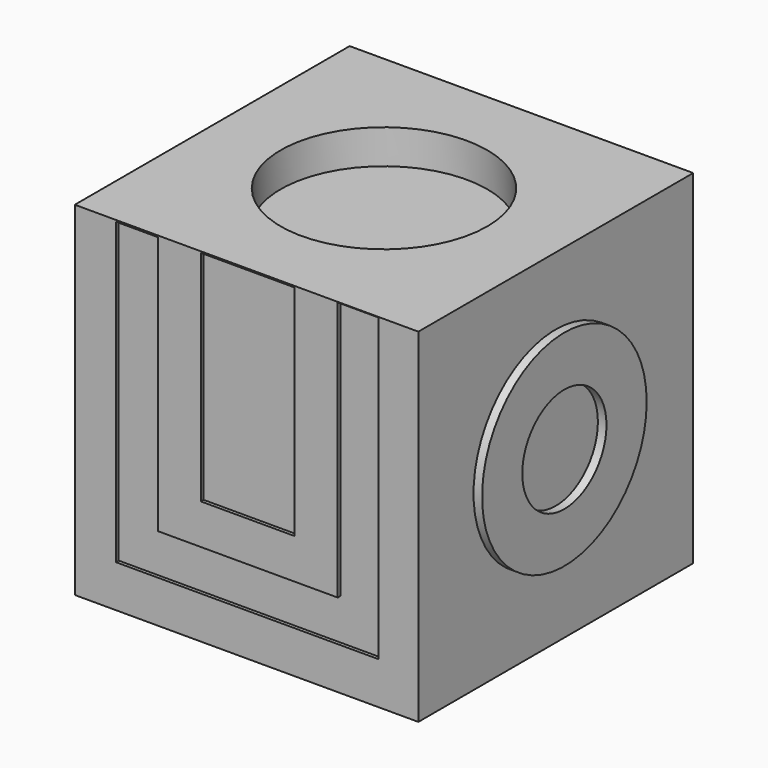
from build123d import *

# Parameters (mm, degrees)
BOX_W           = 10
BOX_H           = 10
BOX_DEPTH       = 10
SKETCH_R        = 3.031933
SKETCH_R_2      = 1.466661
PAD_DEPTH       = 0.25
SKETCH001_R     = 2.993457
SKETCH001_R_2   = 1.531672
PAD001_DEPTH    = 0.25
SKETCH002_W     = 2.724157
SKETCH002_H     = 6.368804
POCKET_DEPTH    = 0.1
POCKET001_DEPTH = 0.1
SKETCH004_R     = 3.031957
PAD002_DEPTH    = 1.2
CHAMFER_SIZE    = 0.5
SKETCH005_R     = 3.00622
POCKET002_DEPTH = 1


with BuildPart() as part:
    # Box → Box (new body)
    with BuildSketch(Plane.XY):
        with Locations((5, 5)):
            Rectangle(BOX_W, BOX_H)
    extrude(amount=BOX_DEPTH)

    # Sketch → Pad (new body)
    with BuildSketch(Plane(origin=(0, 0, 0), x_dir=(0, -1, 0), z_dir=(-1, 0, 0))):
        with Locations((-4.966039, 4.966038)):
            Circle(SKETCH_R)
        with Locations((-4.966039, 4.966038)):
            Circle(SKETCH_R_2, mode=Mode.SUBTRACT)
    extrude(amount=PAD_DEPTH)

    # Sketch001 → Pad001 (new body)
    with BuildSketch(Plane.YZ.offset(10)):
        with Locations((5, 5.033968)):
            Circle(SKETCH001_R)
        with Locations((5, 5.033968)):
            Circle(SKETCH001_R_2, mode=Mode.SUBTRACT)
    extrude(amount=PAD001_DEPTH)

    # Sketch002 → Pocket (cut)
    with BuildSketch(Plane.XZ):
        Polygon((1.199389, 9.955067), (1.199389, 1.230168), (8.845252, 1.230168), (8.845252, 9.984818), (7.653271, 9.984818), (7.653271, 2.423196), (2.426231, 2.423196), (2.426231, 9.955067), align=None)
        with Locations((5.033784, 6.775435)):
            Rectangle(SKETCH002_W, SKETCH002_H)
    extrude(amount=-POCKET_DEPTH, mode=Mode.SUBTRACT)

    # Sketch003 → Pocket001 (cut)
    with BuildSketch(Plane(origin=(0, 10, 0), x_dir=(-1, 0, 0), z_dir=(0, 1, 0))):
        Polygon((-1.217365, 9.989383), (-8.787637, 9.989383), (-8.787637, 2.392008), (-7.501711, 2.392008), (-7.501711, 8.826966), (-2.287892, 8.826966), (-2.287892, 2.401849), (-1.217365, 2.401849), align=None)
        Polygon((-9.019255, 0), (-0.963062, 0), (-0.963062, 1.125345), (-3.413274, 1.125345), (-3.413274, 7.666882), (-6.368116, 7.666882), (-6.368116, 1.205942), (-9.019255, 1.205942), align=None)
    extrude(amount=-POCKET001_DEPTH, mode=Mode.SUBTRACT)

    # Sketch004 → Pad002 (new body)
    with BuildSketch(Plane(origin=(0, 0, 0), x_dir=(1, 0, 0), z_dir=(0, 0, -1))):
        with Locations((5.012299, -4.970473)):
            Circle(SKETCH004_R)
    extrude(amount=PAD002_DEPTH)

    # Chamfer
    chamfer_edges = [part.edges().sort_by_distance(p)[0] for p in [
        (1.980342, 4.970473, -1.2),
    ]]
    chamfer(chamfer_edges, length=CHAMFER_SIZE)

    # Sketch005 → Pocket002 (cut)
    with BuildSketch(Plane.XY.offset(10)):
        with Locations((4.981398, 5.022974)):
            Circle(SKETCH005_R)
    extrude(amount=-POCKET002_DEPTH, mode=Mode.SUBTRACT)


solid = part.part
